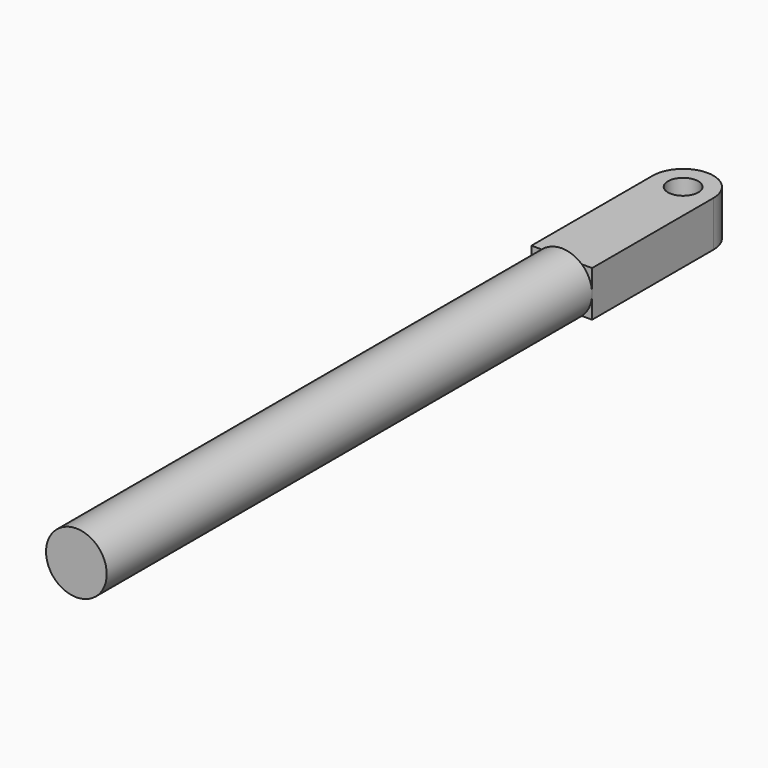
from build123d import *

# Parameters (mm, degrees)
F0_R     = 5
F1_DEPTH = 7.5
F2_R     = 10
F3_DEPTH = 200


with BuildPart() as f1:
    # F0 (on Top) → F1 (new body, symmetric)
    with BuildSketch(Plane.XY):
        with BuildLine():
            Line((-10, -25), (10, -25))
            Line((10, -25), (10, 25))
            ThreePointArc((10, 25), (0, 35), (-10, 25))
            Line((-10, 25), (-10, -25))
        make_face()
        with Locations((0, 25)):
            Circle(F0_R, mode=Mode.SUBTRACT)
    extrude(amount=F1_DEPTH, both=True)

    # F2 (on face) → F3 (join)
    with BuildSketch(Plane.XZ.offset(25)):
        Circle(F2_R)
    extrude(amount=F3_DEPTH)


solid = f1.part
